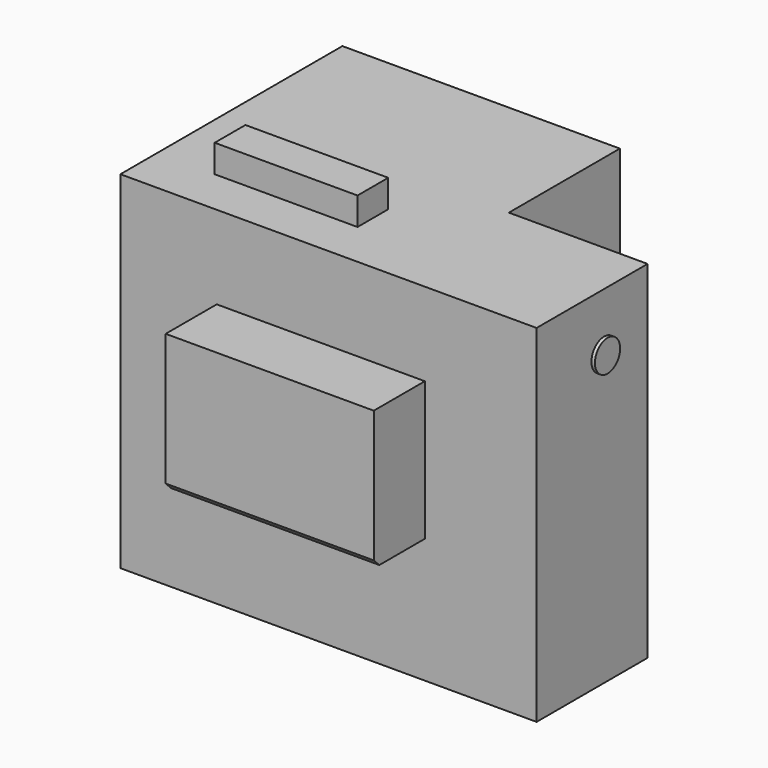
from build123d import *

# Parameters (mm, degrees)
F0_R      = 250
F1_DEPTH  = 2500
F2_W      = 649.865508
F2_H      = 1074.312418
F3_DEPTH  = 430
F4_W      = 1500
F4_H      = 1000
F5_DEPTH  = 460
F6_R      = 113.611568
F7_DEPTH  = 25
F8_SIZE   = 50
F9_W      = 1029.481292
F9_H      = 276.769429
F10_DEPTH = 200


with BuildPart() as f1:
    # F0 (on Top) → F1 (new body)
    with BuildSketch(Plane.XY):
        Polygon((-1444.289317, 1392.216583), (-1444.289317, -607.783417), (1555.710683, -607.783417), (1555.710683, 392.216583), (555.710683, 392.216583), (555.710683, 1392.216583), align=None)
        with Locations((-627.124965, 837.157905)):
            Circle(F0_R, mode=Mode.SUBTRACT)
        with Locations((-627.124965, 837.157905)):
            Circle(F0_R)
    extrude(amount=F1_DEPTH)

    # F2 (on face) → F3 (cut)
    with BuildSketch(Plane(origin=(0, 0, 0), x_dir=(1, 0, 0), z_dir=(0, 0, -1))):
        with Locations((-486.385107, -363.519326)):
            Rectangle(F2_W, F2_H)
    extrude(amount=-F3_DEPTH, mode=Mode.SUBTRACT)

    # F4 (on face) → F5 (join)
    with BuildSketch(Plane.XZ.offset(607.783417)):
        with Locations((0, 1400)):
            Rectangle(F4_W, F4_H)
    extrude(amount=F5_DEPTH)

    # F6 (on face) → F7 (join)
    with BuildSketch(Plane.YZ.offset(1555.710683)):
        with Locations((0, 2084.713459)):
            Circle(F6_R)
    extrude(amount=F7_DEPTH)

    # F8
    f8_edges = [f1.edges().sort_by_distance(p)[0] for p in [
        (0, -1067.783417, 900),
    ]]
    chamfer(f8_edges, length=F8_SIZE)


with BuildPart() as f10:
    # F9 (on face) → F10 (new body)
    with BuildSketch(Plane.XY.offset(2500)):
        with Locations((-514.740646, -138.384715)):
            Rectangle(F9_W, F9_H)
    extrude(amount=F10_DEPTH)


solid = Compound([f1.part, f10.part])
